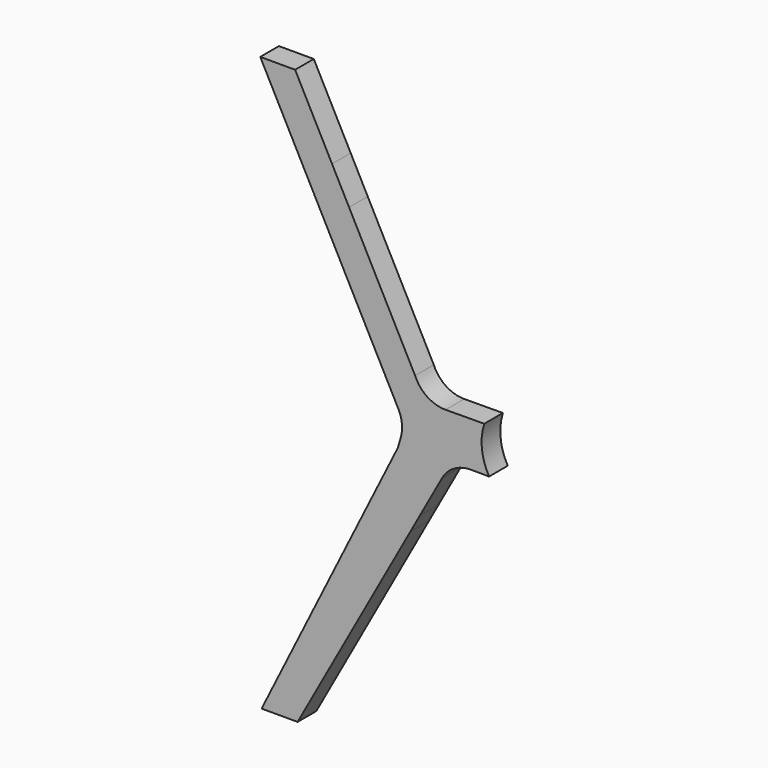
from build123d import *

# Parameters (mm, degrees)
F2_DEPTH = 25


with BuildPart() as f2:
    # F1 (on face) → F2 (new body)
    with BuildSketch(Plane.XZ):
        with BuildLine():
            Line((-297.94293, 60.56272), (-287.904638, 78.745993))
            Line((-287.904638, 78.745993), (-264.119575, 121.830047))
            ThreePointArc((-264.119575, 121.830047), (-251.165034, 135.11697), (-233.238659, 139.913584))
            Line((-233.238659, 139.913584), (-213.697833, 139.779545))
            ThreePointArc((-213.697833, 139.779545), (-221.348908, 163.277257), (-218.880566, 187.865643))
            Line((-218.880566, 187.865643), (-260.360033, 187.611007))
            ThreePointArc((-260.360033, 187.611007), (-279.922741, 193.444261), (-292.903603, 209.199373))
            Line((-292.903603, 209.199373), (-363.591224, 344.828208))
            Line((-363.591224, 344.828208), (-381.832675, 379.828208))
            Line((-381.832675, 379.828208), (-421.377269, 455.702698))
            Line((-421.377269, 455.702698), (-458.70873, 455.702698))
            Line((-458.70873, 455.702698), (-318.796581, 187.252275))
            Line((-318.796581, 187.252275), (-310.806441, 171.921537))
            ThreePointArc((-310.806441, 171.921537), (-307.018527, 159.236472), (-308.213044, 146.051924))
            Line((-308.213044, 146.051924), (-311.319953, 135.27254))
            Line((-311.319953, 135.27254), (-457.277019, -158.149611))
            Line((-457.277019, -158.149611), (-418.685669, -158.149611))
            Line((-418.685669, -158.149611), (-297.94293, 60.56272))
        make_face()
    extrude(amount=F2_DEPTH)


solid = f2.part
